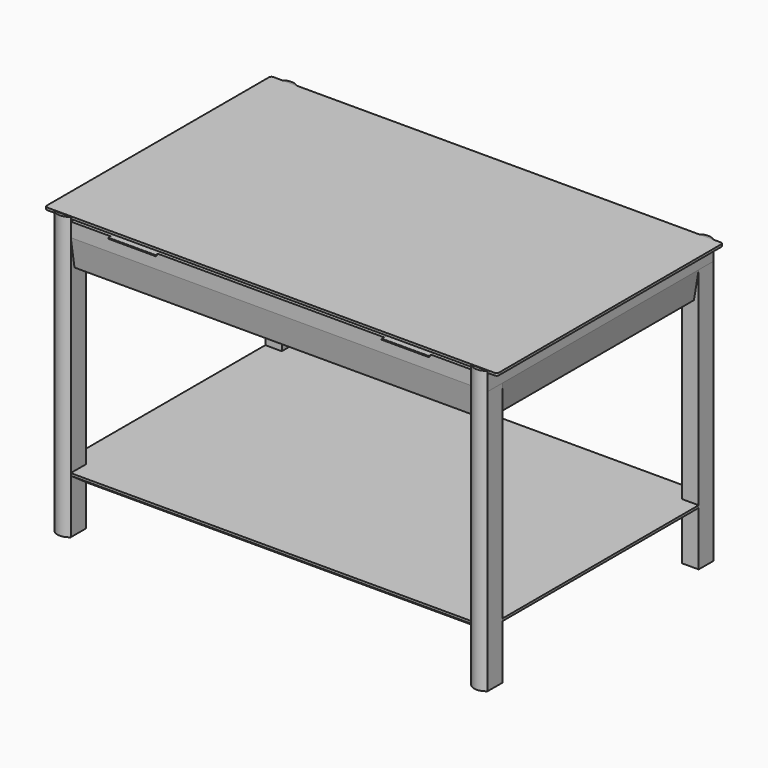
from build123d import *

# Parameters (mm, degrees)
F0_W     = 44.45
F0_H     = 50.8
F1_DEPTH = 6.35
F2_START = -1.5875
F2_DEPTH = 760.4125
F3_START = -12.7
F3_DEPTH = 114.3
F5_START = -152.4
F4_W     = 19.05
F4_H     = 1.6780719161
F5_DEPTH = 127
F6_START = -889
F6_DEPTH = 127
F7_SIZE2 = 12.7
F7_SIZE  = 76.2
F8_START = -609.6
F8_DEPTH = 25.4
F9_SIZE2 = 25.4
F9_SIZE  = 19.05


with BuildPart() as f1:
    # F0 (on Top) → F1 (new body)
    with BuildSketch(Plane.XY):
        with Locations((-1076.325, -42.1217211246)):
            Rectangle(F0_W, F0_H)
        with Locations((-1076.325, -42.1217211246)):
            Rectangle(F0_W, F0_H)
        with BuildLine():
            Line((-1098.55, 694.4782788754), (-1117.6, 694.4782788754))
            ThreePointArc((-1117.6, 694.4782788754), (-1122.0901280605, 692.6184069359), (-1123.95, 688.1282788754))
            Line((-1123.95, 688.1282788754), (-1123.95, -61.1717211246))
            ThreePointArc((-1123.95, -61.1717211246), (-1122.0901280605, -65.6618491852), (-1117.6, -67.5217211246))
            Line((-1117.6, -67.5217211246), (-1098.55, -67.5217211246))
            Line((-1098.55, -67.5217211246), (-1098.55, -16.7217211246))
            Line((-1098.55, -16.7217211246), (-1098.55, 643.6782788754))
            Line((-1098.55, 643.6782788754), (-1098.55, 694.4782788754))
        make_face()
        with Locations((-1076.325, 669.0782788754)):
            Rectangle(F0_W, F0_H)
        with Locations((-1076.325, 669.0782788754)):
            Rectangle(F0_W, F0_H)
        with Locations((47.625, 669.0782788754)):
            Rectangle(F0_W, F0_H)
        with Locations((47.625, 669.0782788754)):
            Rectangle(F0_W, F0_H)
        with Locations((47.625, -42.1217211246)):
            Rectangle(F0_W, F0_H)
        with Locations((47.625, -42.1217211246)):
            Rectangle(F0_W, F0_H)
        Polygon((25.4, 694.4782788754), (-1054.1, 694.4782788754), (-1054.1, 643.6782788754), (-1098.55, 643.6782788754), (-1098.55, -16.7217211246), (-1054.1, -16.7217211246), (-1054.1, -67.5217211246), (25.4, -67.5217211246), (25.4, -16.7217211246), (69.85, -16.7217211246), (69.85, 643.6782788754), (25.4, 643.6782788754), align=None)
        with BuildLine():
            Line((88.9, 694.4782788754), (69.85, 694.4782788754))
            Line((69.85, 694.4782788754), (69.85, 643.6782788754))
            Line((69.85, 643.6782788754), (69.85, -16.7217211246))
            Line((69.85, -16.7217211246), (69.85, -67.5217211246))
            Line((69.85, -67.5217211246), (88.9, -67.5217211246))
            ThreePointArc((88.9, -67.5217211246), (93.3901280605, -65.6618491852), (95.25, -61.1717211246))
            Line((95.25, -61.1717211246), (95.25, 688.1282788754))
            ThreePointArc((95.25, 688.1282788754), (93.3901280605, 692.6184069359), (88.9, 694.4782788754))
        make_face()
    extrude(amount=-F1_DEPTH)


with BuildPart() as f2:
    # F0 (on Top) → F2 (new body)
    with BuildSketch(Plane.XY.offset(F2_START)):
        with BuildLine():
            Line((-1054.1, -67.5217211246), (-1098.55, -67.5217211246))
            ThreePointArc((-1098.55, -67.5217211246), (-1076.325, -76.597685864), (-1054.1, -67.5217211246))
        make_face()
        with Locations((-1076.325, -42.1217211246)):
            Rectangle(F0_W, F0_H)
        with Locations((-1076.325, -42.1217211246)):
            Rectangle(F0_W, F0_H)
    extrude(amount=-F2_DEPTH)


with BuildPart() as f2b:
    # F0 (on Top) → F2, piece 2 (new body)
    with BuildSketch(Plane.XY.offset(F2_START)):
        with BuildLine():
            ThreePointArc((-1054.1, 694.4782788754), (-1076.325, 703.5542436147), (-1098.55, 694.4782788754))
            Line((-1098.55, 694.4782788754), (-1054.1, 694.4782788754))
        make_face()
        with Locations((-1076.325, 669.0782788754)):
            Rectangle(F0_W, F0_H)
        with Locations((-1076.325, 669.0782788754)):
            Rectangle(F0_W, F0_H)
    extrude(amount=-F2_DEPTH)


with BuildPart() as f2c:
    # F0 (on Top) → F2, piece 3 (new body)
    with BuildSketch(Plane.XY.offset(F2_START)):
        with Locations((47.625, -42.1217211246)):
            Rectangle(F0_W, F0_H)
        with Locations((47.625, -42.1217211246)):
            Rectangle(F0_W, F0_H)
        with BuildLine():
            Line((69.85, -67.5217211246), (25.4, -67.5217211246))
            ThreePointArc((25.4, -67.5217211246), (47.625, -76.597685864), (69.85, -67.5217211246))
        make_face()
    extrude(amount=-F2_DEPTH)


with BuildPart() as f2d:
    # F0 (on Top) → F2, piece 4 (new body)
    with BuildSketch(Plane.XY.offset(F2_START)):
        with Locations((47.625, 669.0782788754)):
            Rectangle(F0_W, F0_H)
        with BuildLine():
            ThreePointArc((69.85, 694.4782788754), (47.625, 703.5542436147), (25.4, 694.4782788754))
            Line((25.4, 694.4782788754), (69.85, 694.4782788754))
        make_face()
        with Locations((47.625, 669.0782788754)):
            Rectangle(F0_W, F0_H)
    extrude(amount=-F2_DEPTH)


with BuildPart() as f3:
    # F0 (on Top) → F3 (new body)
    with BuildSketch(Plane.XY.offset(F3_START)):
        Polygon((25.4, 694.4782788754), (-1054.1, 694.4782788754), (-1054.1, 643.6782788754), (-1098.55, 643.6782788754), (-1098.55, -16.7217211246), (-1054.1, -16.7217211246), (-1054.1, -67.5217211246), (25.4, -67.5217211246), (25.4, -16.7217211246), (69.85, -16.7217211246), (69.85, 643.6782788754), (25.4, 643.6782788754), align=None)
        with Locations((-1076.325, -42.1217211246)):
            Rectangle(F0_W, F0_H)
        with Locations((-1076.325, 669.0782788754)):
            Rectangle(F0_W, F0_H)
        with Locations((47.625, 669.0782788754)):
            Rectangle(F0_W, F0_H)
        with Locations((47.625, -42.1217211246)):
            Rectangle(F0_W, F0_H)
    extrude(amount=-F3_DEPTH)

    # F7
    f7_edges = [f3.edges().sort_by_distance(p)[0] for p in [
        (-1098.55, 313.478279, -127),
        (-514.35, -67.521721, -127),
        (69.85, 313.478279, -127),
        (-514.35, 694.478279, -127),
    ]]
    chamfer(f7_edges, length=F7_SIZE, length2=F7_SIZE2)


with BuildPart() as f5:
    # F4 (on face) → F5 (new body)
    with BuildSketch(Plane(origin=(-1098.55, 0, 0), x_dir=(0, -1, 0), z_dir=(-1, 0, 0)).offset(F5_START)):
        with BuildLine():
            ThreePointArc((72.1936492085, -14.3780719161), (75.0582971558, -15.5646479473), (73.8717211246, -12.7))
            Line((73.8717211246, -12.7), (73.8717211246, -14.3780719161))
            Line((73.8717211246, -14.3780719161), (72.1936492085, -14.3780719161))
        make_face()
        Polygon((73.8717211246, -12.7), (67.5217211246, -12.7), (67.5217211246, -14.3780719161), (72.1936492085, -14.3780719161), (73.8717211246, -14.3780719161), align=None)
        with Locations((57.9967211246, -13.5390359581)):
            Rectangle(F4_W, F4_H)
    extrude(amount=-F5_DEPTH)


with BuildPart() as f6:
    # F4 (on face) → F6 (new body)
    with BuildSketch(Plane(origin=(-1098.55, 0, 0), x_dir=(0, -1, 0), z_dir=(-1, 0, 0)).offset(F6_START)):
        with Locations((57.9967211246, -13.5390359581)):
            Rectangle(F4_W, F4_H)
        Polygon((73.8717211246, -12.7), (67.5217211246, -12.7), (67.5217211246, -14.3780719161), (72.1936492085, -14.3780719161), (73.8717211246, -14.3780719161), align=None)
        with BuildLine():
            ThreePointArc((72.1936492085, -14.3780719161), (75.0582971558, -15.5646479473), (73.8717211246, -12.7))
            Line((73.8717211246, -12.7), (73.8717211246, -14.3780719161))
            Line((73.8717211246, -14.3780719161), (72.1936492085, -14.3780719161))
        make_face()
    extrude(amount=-F6_DEPTH)


with BuildPart() as f8:
    # F0 (on Top) → F8 (new body)
    with BuildSketch(Plane.XY.offset(F8_START)):
        Polygon((25.4, 694.4782788754), (-1054.1, 694.4782788754), (-1054.1, 643.6782788754), (-1098.55, 643.6782788754), (-1098.55, -16.7217211246), (-1054.1, -16.7217211246), (-1054.1, -67.5217211246), (25.4, -67.5217211246), (25.4, -16.7217211246), (69.85, -16.7217211246), (69.85, 643.6782788754), (25.4, 643.6782788754), align=None)
    extrude(amount=-F8_DEPTH)

    # F9
    f9_edges = [f8.edges().sort_by_distance(p)[0] for p in [
        (-514.35, 694.478279, -635),
        (-1054.1, 669.078279, -635),
        (-1076.325, 643.678279, -635),
        (-1098.55, 313.478279, -635),
        (-1076.325, -16.721721, -635),
        (-1054.1, -42.121721, -635),
        (-514.35, -67.521721, -635),
        (25.4, -42.121721, -635),
        (47.625, -16.721721, -635),
        (69.85, 313.478279, -635),
        (47.625, 643.678279, -635),
        (25.4, 669.078279, -635),
    ]]
    chamfer(f9_edges, length=F9_SIZE, length2=F9_SIZE2)


solid = Compound([f1.part, f2.part, f2b.part, f2c.part, f2d.part, f3.part, f5.part, f6.part, f8.part])
